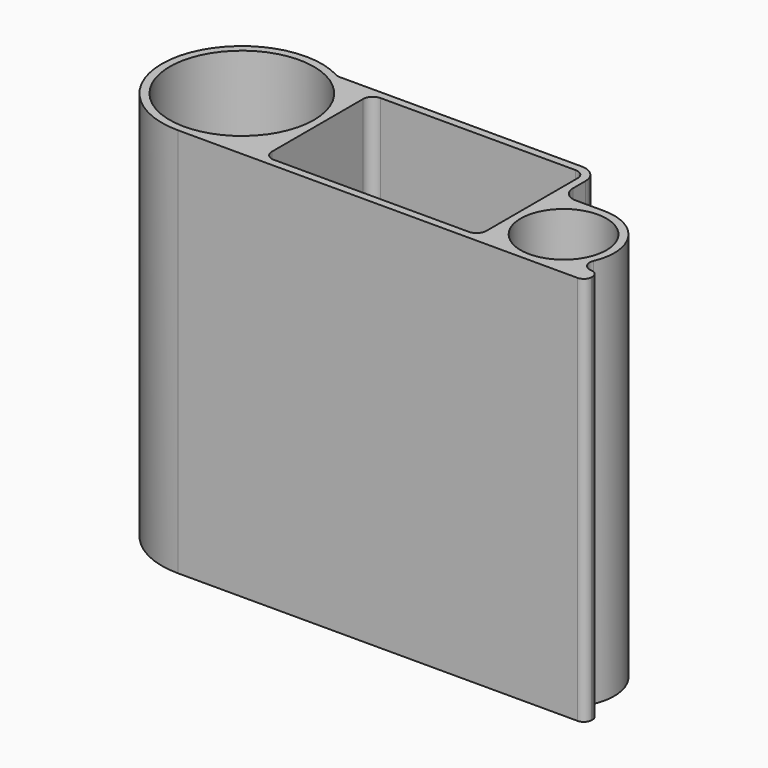
from build123d import *

# Parameters (mm, degrees)
F0_R     = 4.4
F0_R_2   = 7.4
F1_DEPTH = 40
F4_DEPTH = 8


with BuildPart() as f1:
    # F0 (on Top) → F1 (new body)
    with BuildSketch(Plane.XY):
        with BuildLine():
            ThreePointArc((-27.768749, -4.661621), (-39.608035, -9.876247), (-31.65692, -20.081186))
            Line((-31.65692, -20.081186), (9.34308, -20.081186))
            ThreePointArc((9.34308, -20.081186), (9.908765, -19.846872), (10.14308, -19.281186))
            Line((10.14308, -19.281186), (10.14308, -19.173918))
            ThreePointArc((10.14308, -19.173918), (9.939788, -18.641059), (9.433232, -18.379014))
            Line((9.433232, -18.379014), (9.4199, -18.373918))
            ThreePointArc((9.4199, -18.373918), (8.582626, -17.920703), (8.504284, -16.971865))
            ThreePointArc((8.504284, -16.971865), (8.096901, -12.037907), (3.74308, -9.681186))
            Line((3.74308, -9.681186), (0.84308, -9.681186))
            ThreePointArc((0.84308, -9.681186), (-0.217581, -9.241847), (-0.65692, -8.181186))
            Line((-0.65692, -8.181186), (-0.65692, -6.581186))
            ThreePointArc((-0.65692, -6.581186), (-1.184128, -5.308394), (-2.45692, -4.781186))
            Line((-2.45692, -4.781186), (-27.294582, -4.781186))
            ThreePointArc((-27.294582, -4.781186), (-27.539086, -4.750834), (-27.768749, -4.661621))
        make_face()
        with BuildLine():
            ThreePointArc((-22.45692, -19.281186), (-23.164027, -18.988293), (-23.45692, -18.281186))
            Line((-23.45692, -18.281186), (-23.45692, -6.581186))
            ThreePointArc((-23.45692, -6.581186), (-23.164027, -5.87408), (-22.45692, -5.581186))
            Line((-22.45692, -5.581186), (-2.45692, -5.581186))
            ThreePointArc((-2.45692, -5.581186), (-1.749814, -5.87408), (-1.45692, -6.581186))
            Line((-1.45692, -6.581186), (-1.45692, -18.281186))
            ThreePointArc((-1.45692, -18.281186), (-1.749814, -18.988293), (-2.45692, -19.281186))
            Line((-2.45692, -19.281186), (-22.45692, -19.281186))
        make_face(mode=Mode.SUBTRACT)
        with Locations((3.74308, -14.881186)):
            Circle(F0_R, mode=Mode.SUBTRACT)
        with Locations((-31.65692, -11.881186)):
            Circle(F0_R_2, mode=Mode.SUBTRACT)
        with BuildLine():
            ThreePointArc((-27.768749, -4.661621), (-39.608035, -9.876247), (-31.65692, -20.081186))
            Line((-31.65692, -20.081186), (9.34308, -20.081186))
            ThreePointArc((9.34308, -20.081186), (9.908765, -19.846872), (10.14308, -19.281186))
            Line((10.14308, -19.281186), (10.14308, -19.173918))
            ThreePointArc((10.14308, -19.173918), (9.939788, -18.641059), (9.433232, -18.379014))
            Line((9.433232, -18.379014), (9.4199, -18.373918))
            ThreePointArc((9.4199, -18.373918), (8.582626, -17.920703), (8.504284, -16.971865))
            ThreePointArc((8.504284, -16.971865), (8.096901, -12.037907), (3.74308, -9.681186))
            Line((3.74308, -9.681186), (0.84308, -9.681186))
            ThreePointArc((0.84308, -9.681186), (-0.217581, -9.241847), (-0.65692, -8.181186))
            Line((-0.65692, -8.181186), (-0.65692, -6.581186))
            ThreePointArc((-0.65692, -6.581186), (-1.184128, -5.308394), (-2.45692, -4.781186))
            Line((-2.45692, -4.781186), (-27.294582, -4.781186))
            ThreePointArc((-27.294582, -4.781186), (-27.539086, -4.750834), (-27.768749, -4.661621))
        make_face()
        with BuildLine():
            ThreePointArc((-22.45692, -19.281186), (-23.164027, -18.988293), (-23.45692, -18.281186))
            Line((-23.45692, -18.281186), (-23.45692, -6.581186))
            ThreePointArc((-23.45692, -6.581186), (-23.164027, -5.87408), (-22.45692, -5.581186))
            Line((-22.45692, -5.581186), (-2.45692, -5.581186))
            ThreePointArc((-2.45692, -5.581186), (-1.749814, -5.87408), (-1.45692, -6.581186))
            Line((-1.45692, -6.581186), (-1.45692, -18.281186))
            ThreePointArc((-1.45692, -18.281186), (-1.749814, -18.988293), (-2.45692, -19.281186))
            Line((-2.45692, -19.281186), (-22.45692, -19.281186))
        make_face(mode=Mode.SUBTRACT)
        with Locations((3.74308, -14.881186)):
            Circle(F0_R, mode=Mode.SUBTRACT)
        with Locations((-31.65692, -11.881186)):
            Circle(F0_R_2, mode=Mode.SUBTRACT)
    extrude(amount=F1_DEPTH)

    # F3 (on offset) → F4 (join)
    with BuildSketch(Plane.YZ.offset(7)):
        with BuildLine():
            Line((-19.581186, 35), (-19.581186, 33.16697))
            ThreePointArc((-19.581186, 33.16697), (-18.707866, 33.904555), (-18.381186, 35))
            Line((-18.381186, 35), (-19.581186, 35))
        make_face()
        with BuildLine():
            Line((-19.581186, 35), (-18.381186, 35))
            ThreePointArc((-18.381186, 35), (-18.707866, 36.095445), (-19.581186, 36.83303))
            Line((-19.581186, 36.83303), (-19.581186, 35))
        make_face()
    extrude(amount=-F4_DEPTH)


solid = f1.part
